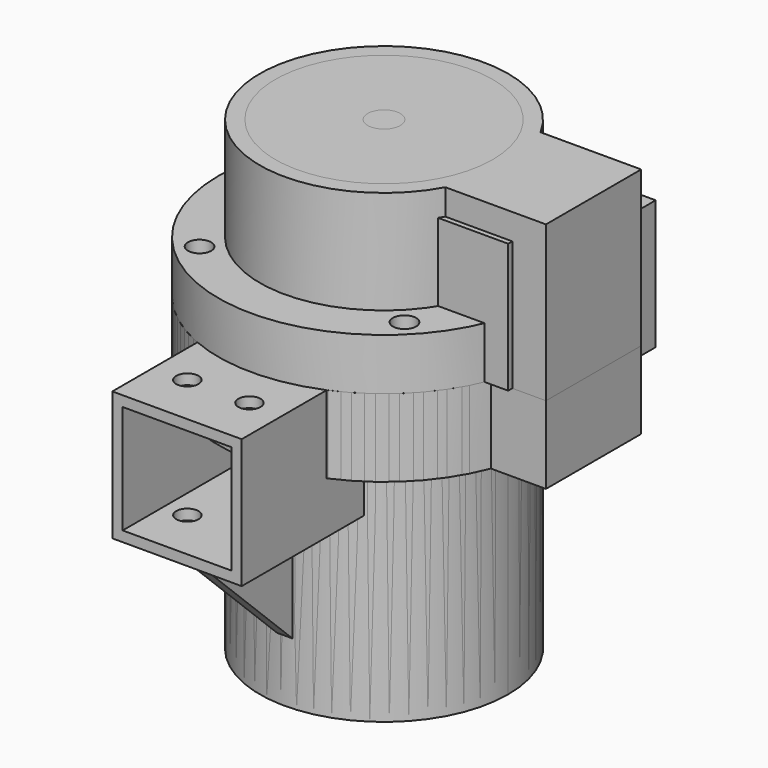
from build123d import *

# Parameters (mm, degrees)
SKETCH_W              = 61
SKETCH_H              = 23
PAD_DEPTH             = 30
SKETCH015_R           = 24
PAD006_DEPTH          = 30
SKETCH019_W           = 9
SKETCH019_H           = 4
POCKET020_DEPTH       = 24.001
SKETCH054_R           = 32
PAD018_DEPTH          = 10
SKETCH001_W           = 41
SKETCH001_H           = 20.4
POCKET_DEPTH          = 29
SKETCH002_W           = 4
SKETCH002_H           = 8
POCKET039_DEPTH       = 28
SKETCH055_R           = 2.25
POCKET040_DEPTH       = 232.50779
POLARPATTERN001_COUNT = 4
SKETCH009_R           = 24
PAD002_DEPTH          = 60
SKETCH004_W           = 61
SKETCH004_H           = 23
PAD003_DEPTH          = 15
SKETCH036_W           = 25
SKETCH036_H           = 40
PAD015_DEPTH          = 25
PAD016_DEPTH          = 1.5
SKETCH047_R           = 32
PAD017_DEPTH          = 15
SKETCH005_W           = 55
SKETCH005_H           = 20
POCKET030_DEPTH       = 3
SKETCH008_W           = 7
SKETCH008_H           = 2
POCKET031_DEPTH       = 3
SKETCH038_R           = 13
POCKET032_DEPTH       = 48
SKETCH006_W           = 40
SKETCH006_H           = 20
POCKET033_DEPTH       = 9
HOLE_D                = 3
HOLE_DEPTH            = 25
HOLE_CBORE_D          = 6
HOLE_CBORE_DEPTH      = 12
POLARPATTERN_COUNT    = 4
SKETCH056_R           = 9.75
POCKET041_DEPTH       = 6
SKETCH057_R           = 4.5
POCKET042_DEPTH       = 6.001
SKETCH058_R           = 22
POCKET043_DEPTH       = 2
SKETCH059_R           = 6.25
POCKET044_DEPTH       = 2
SKETCH060_W           = 21
SKETCH060_H           = 21
POCKET045_DEPTH       = 36
SKETCH065_R           = 2.15
POCKET051_DEPTH       = 60.001
SKETCH027_R           = 21
PAD011_DEPTH          = 30
SKETCH029_W           = 34
SKETCH029_H           = 25
PAD012_DEPTH          = 25
SKETCH061_R           = 6.15
POCKET046_DEPTH       = 20
SKETCH062_R           = 3.15
POCKET047_DEPTH       = 30.001
SKETCH031_W           = 21
SKETCH031_H           = 21
POCKET048_DEPTH       = 32
SKETCH063_R           = 2.25
POCKET049_DEPTH       = 21.001
SKETCH064_R           = 2.25
POCKET050_DEPTH       = 21.001
SKETCH086_R           = 2.15
POCKET066_DEPTH       = 30.001
SKETCH077_R           = 24
PAD019_DEPTH          = 60
SKETCH081_W           = 61
SKETCH081_H           = 23
PAD020_DEPTH          = 15
SKETCH079_W           = 25
SKETCH079_H           = 40
PAD021_DEPTH          = 25
PAD022_DEPTH          = 1.5
SKETCH075_R           = 32
PAD023_DEPTH          = 15
SKETCH082_W           = 55
SKETCH082_H           = 20
POCKET059_DEPTH       = 3
SKETCH083_W           = 7
SKETCH083_H           = 2
POCKET058_DEPTH       = 3
SKETCH072_R           = 13
POCKET056_DEPTH       = 48
SKETCH084_W           = 40
SKETCH084_H           = 20
POCKET057_DEPTH       = 9
HOLE001_D             = 3
HOLE001_DEPTH         = 25
HOLE001_CBORE_D       = 6
HOLE001_CBORE_DEPTH   = 12
POLARPATTERN002_COUNT = 4
SKETCH070_R           = 2.15
POCKET061_DEPTH       = 60.001
SKETCH078_W           = 21
SKETCH078_H           = 21
POCKET065_DEPTH       = 36
SKETCH085_R           = 9.75
POCKET063_DEPTH       = 6
SKETCH076_R           = 4.5
POCKET064_DEPTH       = 6.001
SKETCH080_R           = 22
POCKET060_DEPTH       = 2
SKETCH074_R           = 6.25
POCKET062_DEPTH       = 2


with BuildPart() as bodytop:
    # Sketch → Pad (new body)
    with BuildSketch(Plane.XY):
        with Locations((10, 0)):
            Rectangle(SKETCH_W, SKETCH_H)
    extrude(amount=PAD_DEPTH)

    # Sketch015 → Pad006 (join)
    with BuildSketch(Plane(origin=(0, 0, 0), x_dir=(1, 0, 0), z_dir=(0, 0, -1))):
        Circle(SKETCH015_R)
    extrude(amount=-PAD006_DEPTH)

    # Sketch019 → Pocket020 (cut, through all)
    with BuildSketch(Plane.YZ):
        with Locations((0, 23.083333)):
            Rectangle(SKETCH019_W, SKETCH019_H)
    extrude(amount=-POCKET020_DEPTH, mode=Mode.SUBTRACT)

    # Sketch054 → Pad018 (join)
    with BuildSketch(Plane.XY):
        Circle(SKETCH054_R)
    extrude(amount=PAD018_DEPTH)

    # Sketch001 → Pocket (cut)
    with BuildSketch(Plane(origin=(0, 0, 0), x_dir=(1, 0, 0), z_dir=(0, 0, -1))):
        with Locations((10, 0)):
            Rectangle(SKETCH001_W, SKETCH001_H)
    extrude(amount=-POCKET_DEPTH, mode=Mode.SUBTRACT)

    # Sketch002 → Pocket039 (cut)
    with BuildSketch(Plane(origin=(0, 0, 0), x_dir=(1, 0, 0), z_dir=(0, 0, -1))):
        with Locations((-12.5, 0)):
            Rectangle(SKETCH002_W, SKETCH002_H)
    extrude(amount=-POCKET039_DEPTH, mode=Mode.SUBTRACT)

    # Sketch055 (on Face11 of Pocket039) → Pocket040 (cut, through all)
    with BuildSketch(Plane(origin=(0, 0, 0), x_dir=(1, 0, 0), z_dir=(0, 0, -1))):
        with Locations((19.79899, 19.79899)):
            Circle(SKETCH055_R)
    pocket040 = extrude(amount=-POCKET040_DEPTH, mode=Mode.SUBTRACT)

    # PolarPattern001: Pocket040 ×4 about axis
    polarpattern001_axis = Axis((0, 0, 0), (0, 0, 1))
    for i in range(1, POLARPATTERN001_COUNT):
        add(pocket040.rotate(polarpattern001_axis, i * 360 / POLARPATTERN001_COUNT), mode=Mode.SUBTRACT)


with BuildPart() as obj1:
    # Sketch009 → Pad002 (new body)
    with BuildSketch(Plane.XY):
        Circle(SKETCH009_R)
    extrude(amount=-PAD002_DEPTH)

    # Sketch004 → Pad003 (join)
    with BuildSketch(Plane.XY):
        with Locations((10, 0)):
            Rectangle(SKETCH004_W, SKETCH004_H)
    extrude(amount=-PAD003_DEPTH)

    # Sketch036 → Pad015 (join)
    with BuildSketch(Plane.XY):
        with Locations((0, 30)):
            Rectangle(SKETCH036_W, SKETCH036_H)
    extrude(amount=-PAD015_DEPTH)

    # Sketch043 → Pad016 (join, symmetric)
    with BuildSketch(Plane.YZ):
        Polygon((23, -24), (49, -24), (23, -49), align=None)
    extrude(amount=PAD016_DEPTH, both=True)

    # Sketch047 → Pad017 (join)
    with BuildSketch(Plane.XY):
        Circle(SKETCH047_R)
    extrude(amount=-PAD017_DEPTH)

    # Sketch005 → Pocket030 (cut)
    with BuildSketch(Plane.XY):
        with Locations((10, 0)):
            Rectangle(SKETCH005_W, SKETCH005_H)
    extrude(amount=-POCKET030_DEPTH, mode=Mode.SUBTRACT)

    # Sketch008 → Pocket031 (cut)
    with BuildSketch(Plane.XY.offset(-3)):
        with Locations((-13.5, 0)):
            Rectangle(SKETCH008_W, SKETCH008_H)
        with Locations((33.5, 0)):
            Rectangle(SKETCH008_W, SKETCH008_H)
    extrude(amount=-POCKET031_DEPTH, mode=Mode.SUBTRACT)

    # Sketch038 → Pocket032 (cut)
    with BuildSketch(Plane.XY):
        Circle(SKETCH038_R)
    extrude(amount=-POCKET032_DEPTH, mode=Mode.SUBTRACT)

    # Sketch006 → Pocket033 (cut)
    with BuildSketch(Plane.XY.offset(-3)):
        with Locations((10, 0)):
            Rectangle(SKETCH006_W, SKETCH006_H)
    extrude(amount=-POCKET033_DEPTH, mode=Mode.SUBTRACT)

    # Hole
    with Locations(Plane(origin=(0, 0, -15), x_dir=(1, 0, 0), z_dir=(0, 0, -1))):
        with Locations((19.79899, 19.79899)):
            hole = CounterBoreHole(HOLE_D / 2, HOLE_CBORE_D / 2, HOLE_CBORE_DEPTH, depth=HOLE_DEPTH)

    # PolarPattern: Hole ×4 about axis
    polarpattern_axis = Axis((0, 0, 0), (0, 0, 1))
    for i in range(1, POLARPATTERN_COUNT):
        add(hole.rotate(polarpattern_axis, i * 360 / POLARPATTERN_COUNT), mode=Mode.SUBTRACT)

    # Sketch056 (on Face26 of PolarPattern) → Pocket041 (cut)
    with BuildSketch(Plane.XY.offset(-48)):
        Circle(SKETCH056_R)
    extrude(amount=-POCKET041_DEPTH, mode=Mode.SUBTRACT)

    # Sketch057 (on Face57 of Pocket041) → Pocket042 (cut, through all)
    with BuildSketch(Plane.XY.offset(-54)):
        Circle(SKETCH057_R)
    extrude(amount=-POCKET042_DEPTH, mode=Mode.SUBTRACT)

    # Sketch058 (on Face71 of Pocket042) → Pocket043 (cut)
    with BuildSketch(Plane(origin=(0, 0, -60), x_dir=(1, 0, 0), z_dir=(0, 0, -1))):
        Circle(SKETCH058_R)
    extrude(amount=-POCKET043_DEPTH, mode=Mode.SUBTRACT)

    # Sketch059 (on Face76 of Pocket043) → Pocket044 (cut)
    with BuildSketch(Plane(origin=(0, 0, -58), x_dir=(1, 0, 0), z_dir=(0, 0, -1))):
        Circle(SKETCH059_R)
    extrude(amount=-POCKET044_DEPTH, mode=Mode.SUBTRACT)

    # Sketch060 (on Face65 of Pocket044) → Pocket045 (cut)
    with BuildSketch(Plane(origin=(0, 50, 0), x_dir=(-1, 0, 0), z_dir=(0, 1, 0))):
        with Locations((0, -12.5)):
            Rectangle(SKETCH060_W, SKETCH060_H)
    extrude(amount=-POCKET045_DEPTH, mode=Mode.SUBTRACT)

    # Sketch065 (on Face52 of Pocket045) → Pocket051 (cut, through all)
    with BuildSketch(Plane.XY):
        with Locations((-6, 40)):
            Circle(SKETCH065_R)
        with Locations((6, 40)):
            Circle(SKETCH065_R)
    extrude(amount=-POCKET051_DEPTH, mode=Mode.SUBTRACT)


with BuildPart() as bodystator:
    # Sketch027 → Pad011 (new body)
    with BuildSketch(Plane.XY):
        Circle(SKETCH027_R)
    extrude(amount=PAD011_DEPTH)

    # Sketch029 (on Face2 of Pad011) → Pad012 (join)
    with BuildSketch(Plane(origin=(0, 0, 0), x_dir=(1, 0, 0), z_dir=(0, 0, -1))):
        with Locations((17, 0)):
            Rectangle(SKETCH029_W, SKETCH029_H)
    extrude(amount=-PAD012_DEPTH)

    # Sketch061 (on Face3 of Pad012) → Pocket046 (cut)
    with BuildSketch(Plane(origin=(0, 0, 0), x_dir=(1, 0, 0), z_dir=(0, 0, -1))):
        Circle(SKETCH061_R)
    extrude(amount=-POCKET046_DEPTH, mode=Mode.SUBTRACT)

    # Sketch062 (on Face11 of Pocket046) → Pocket047 (cut, through all)
    with BuildSketch(Plane.XY.offset(30)):
        Circle(SKETCH062_R)
    extrude(amount=-POCKET047_DEPTH, mode=Mode.SUBTRACT)

    # Sketch031 → Pocket048 (cut)
    with BuildSketch(Plane.YZ.offset(40)):
        with Locations((0, 12.5)):
            Rectangle(SKETCH031_W, SKETCH031_H)
    extrude(amount=-POCKET048_DEPTH, mode=Mode.SUBTRACT)

    # Sketch063 → Pocket049 (cut, through all)
    with BuildSketch(Plane.XZ):
        with Locations((0, 15)):
            Circle(SKETCH063_R)
    extrude(amount=-POCKET049_DEPTH, mode=Mode.SUBTRACT)

    # Sketch064 → Pocket050 (cut, through all)
    with BuildSketch(Plane.YZ):
        with Locations((0, 15)):
            Circle(SKETCH064_R)
    extrude(amount=-POCKET050_DEPTH, mode=Mode.SUBTRACT)

    # Sketch086 (on Face4 of Pocket050) → Pocket066 (cut, through all)
    with BuildSketch(Plane(origin=(0, 0, 0), x_dir=(1, 0, 0), z_dir=(0, 0, -1))):
        with Locations((27, 6)):
            Circle(SKETCH086_R)
        with Locations((27, -6)):
            Circle(SKETCH086_R)
    extrude(amount=-POCKET066_DEPTH, mode=Mode.SUBTRACT)


with BuildPart() as obj2:
    # Sketch077 → Pad019 (new body)
    with BuildSketch(Plane.XY):
        Circle(SKETCH077_R)
    extrude(amount=-PAD019_DEPTH)

    # Sketch081 → Pad020 (join)
    with BuildSketch(Plane.XY):
        with Locations((10, 0)):
            Rectangle(SKETCH081_W, SKETCH081_H)
    extrude(amount=-PAD020_DEPTH)

    # Sketch079 → Pad021 (join)
    with BuildSketch(Plane.XY):
        with Locations((0, -30)):
            Rectangle(SKETCH079_W, SKETCH079_H)
    extrude(amount=-PAD021_DEPTH)

    # Sketch073 → Pad022 (join, symmetric)
    with BuildSketch(Plane.YZ):
        Polygon((-49, -24), (-23, -24), (-23, -49), align=None)
    extrude(amount=PAD022_DEPTH, both=True)

    # Sketch075 → Pad023 (join)
    with BuildSketch(Plane.XY):
        Circle(SKETCH075_R)
    extrude(amount=-PAD023_DEPTH)

    # Sketch082 → Pocket059 (cut)
    with BuildSketch(Plane.XY):
        with Locations((10, 0)):
            Rectangle(SKETCH082_W, SKETCH082_H)
    extrude(amount=-POCKET059_DEPTH, mode=Mode.SUBTRACT)

    # Sketch083 → Pocket058 (cut)
    with BuildSketch(Plane.XY.offset(-3)):
        with Locations((-13.5, 0)):
            Rectangle(SKETCH083_W, SKETCH083_H)
        with Locations((33.5, 0)):
            Rectangle(SKETCH083_W, SKETCH083_H)
    extrude(amount=-POCKET058_DEPTH, mode=Mode.SUBTRACT)

    # Sketch072 → Pocket056 (cut)
    with BuildSketch(Plane.XY):
        Circle(SKETCH072_R)
    extrude(amount=-POCKET056_DEPTH, mode=Mode.SUBTRACT)

    # Sketch084 → Pocket057 (cut)
    with BuildSketch(Plane.XY.offset(-3)):
        with Locations((10, 0)):
            Rectangle(SKETCH084_W, SKETCH084_H)
    extrude(amount=-POCKET057_DEPTH, mode=Mode.SUBTRACT)

    # Hole001
    with Locations(Plane(origin=(0, 0, -15), x_dir=(1, 0, 0), z_dir=(0, 0, -1))):
        with Locations((19.79899, 19.79899)):
            hole001 = CounterBoreHole(HOLE001_D / 2, HOLE001_CBORE_D / 2, HOLE001_CBORE_DEPTH, depth=HOLE001_DEPTH)

    # PolarPattern002: Hole001 ×4 about axis
    polarpattern002_axis = Axis((0, 0, 0), (0, 0, 1))
    for i in range(1, POLARPATTERN002_COUNT):
        add(hole001.rotate(polarpattern002_axis, i * 360 / POLARPATTERN002_COUNT), mode=Mode.SUBTRACT)

    # Sketch070 → Pocket061 (cut, through all)
    with BuildSketch(Plane.XY):
        with Locations((-6, -40)):
            Circle(SKETCH070_R)
        with Locations((6, -40)):
            Circle(SKETCH070_R)
    extrude(amount=-POCKET061_DEPTH, mode=Mode.SUBTRACT)

    # Sketch078 (on Face57 of Pocket061) → Pocket065 (cut)
    with BuildSketch(Plane.XZ.offset(50)):
        with Locations((0, -12.5)):
            Rectangle(SKETCH078_W, SKETCH078_H)
    extrude(amount=-POCKET065_DEPTH, mode=Mode.SUBTRACT)

    # Sketch085 (on Face34 of Pocket065) → Pocket063 (cut)
    with BuildSketch(Plane.XY.offset(-48)):
        Circle(SKETCH085_R)
    extrude(amount=-POCKET063_DEPTH, mode=Mode.SUBTRACT)

    # Sketch076 (on Face66 of Pocket063) → Pocket064 (cut, through all)
    with BuildSketch(Plane.XY.offset(-54)):
        Circle(SKETCH076_R)
    extrude(amount=-POCKET064_DEPTH, mode=Mode.SUBTRACT)

    # Sketch080 (on Face75 of Pocket064) → Pocket060 (cut)
    with BuildSketch(Plane(origin=(0, 0, -60), x_dir=(1, 0, 0), z_dir=(0, 0, -1))):
        Circle(SKETCH080_R)
    extrude(amount=-POCKET060_DEPTH, mode=Mode.SUBTRACT)

    # Sketch074 (on Face87 of Pocket060) → Pocket062 (cut)
    with BuildSketch(Plane(origin=(0, 0, -58), x_dir=(1, 0, 0), z_dir=(0, 0, -1))):
        Circle(SKETCH074_R)
    extrude(amount=-POCKET062_DEPTH, mode=Mode.SUBTRACT)


solid = Compound([bodytop.part, obj1.part, bodystator.part, obj2.part])
